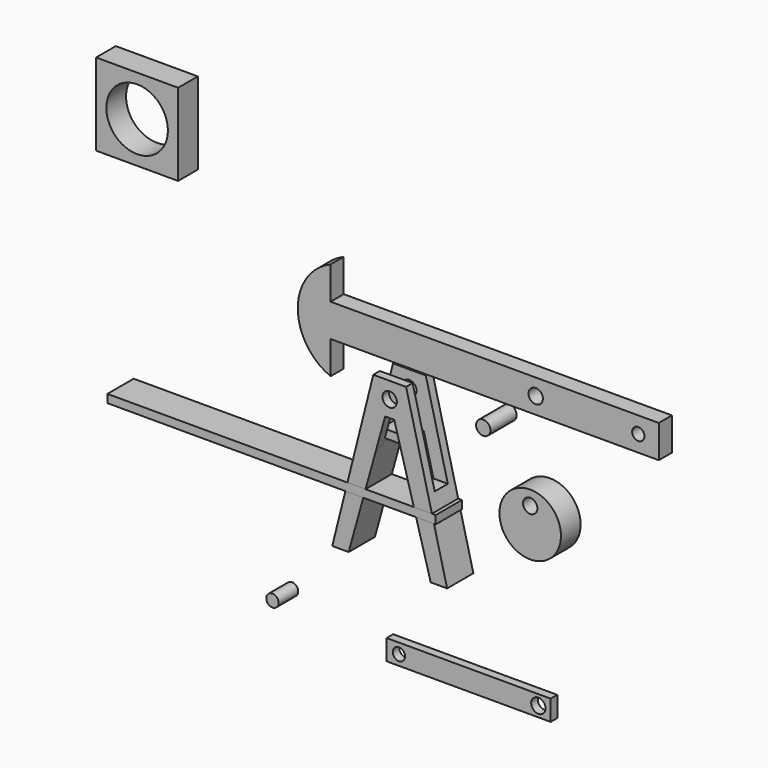
from build123d import *

# Parameters (mm, degrees)
F0_R      = 22.225
F0_R_2    = 19.05
F1_DEPTH  = 50.8
F2_R      = 22.225
F3_DEPTH  = 25.4
F5_DEPTH  = 50.8
F7_DEPTH  = 25.4
F8_R      = 22.225
F9_DEPTH  = 101.6
F10_R     = 95.25
F10_R_2   = 22.225
F11_DEPTH = 76.2
F12_R     = 19.05
F13_DEPTH = 76.2
F14_R     = 22.225
F15_DEPTH = 25.4
F16_W     = 254
F16_H     = 254
F16_R     = 95.25
F17_DEPTH = 76.2
F18_W     = 1016
F18_H     = 25.4
F19_DEPTH = 101.6


with BuildPart() as f1:
    # F0 (on Front) → F1 (new body)
    with BuildSketch(Plane.XZ):
        with BuildLine():
            Line((674.7886301041, 176.9277313841), (-341.2113698959, 176.9277313841))
            Line((-341.2113698959, 176.9277313841), (-341.2113698959, 278.5277313841))
            ThreePointArc((-341.2113698959, 278.5277313841), (-442.8113698959, 126.1277313841), (-341.2113698959, -26.2722686159))
            Line((-341.2113698959, -26.2722686159), (-341.2113698959, 75.3277313841))
            Line((-341.2113698959, 75.3277313841), (674.7886301041, 75.3277313841))
            Line((674.7886301041, 75.3277313841), (674.7886301041, 176.9277313841))
        make_face()
        with Locations((293.7886301041, 126.1277313841)):
            Circle(F0_R, mode=Mode.SUBTRACT)
        with Locations((611.2886301041, 126.1277313841)):
            Circle(F0_R_2, mode=Mode.SUBTRACT)
    extrude(amount=F1_DEPTH)


with BuildPart() as f3:
    # F2 (on Front) → F3 (new body)
    with BuildSketch(Plane.XZ):
        Polygon((-117.6197227955, 54.7419947535), (-168.4197227955, 54.7419947535), (-295.4197227955, -453.2580052465), (-244.6197227955, -453.2580052465), (-131.7308339066, -46.8580052465), (-103.5086116844, -46.8580052465), (9.3802772045, -453.2580052465), (60.1802772045, -453.2580052465), (-66.8197227955, 54.7419947535), align=None)
        with Locations((-117.6197227955, 3.9419947535)):
            Circle(F2_R, mode=Mode.SUBTRACT)
    extrude(amount=F3_DEPTH)

    # F4 (on face) → F5 (join)
    with BuildSketch(Plane.XZ.offset(25.4)):
        Polygon((-73.1697227955, -97.6580052465), (-89.3975005733, -97.6580052465), (-82.3419450177, -123.0580052465), (9.3802772045, -453.2580052465), (60.1802772045, -453.2580052465), (1.4427772045, -218.3080052465), (-43.0072227955, -218.3080052465), align=None)
        Polygon((-152.8975005733, -123.0580052465), (-145.8419450177, -97.6580052465), (-162.0697227955, -97.6580052465), (-192.2322227955, -218.3080052465), (-236.6822227955, -218.3080052465), (-295.4197227955, -453.2580052465), (-244.6197227955, -453.2580052465), align=None)
        Polygon((-89.3975005733, -97.6580052465), (-145.8419450177, -97.6580052465), (-152.8975005733, -123.0580052465), (-82.3419450177, -123.0580052465), align=None)
    extrude(amount=F5_DEPTH)

    # F6 (on face) → F7 (join)
    with BuildSketch(Plane.XZ.offset(76.2)):
        Polygon((-43.0072227955, -218.3080052465), (1.4427772045, -218.3080052465), (-66.8197227955, 54.7419947535), (-117.6197227955, 54.7419947535), (-168.4197227955, 54.7419947535), (-236.6822227955, -218.3080052465), (-192.2322227955, -218.3080052465), (-162.0697227955, -97.6580052465), (-145.8419450177, -97.6580052465), (-131.7308339066, -46.8580052465), (-103.5086116844, -46.8580052465), (-89.3975005733, -97.6580052465), (-73.1697227955, -97.6580052465), align=None)
        with BuildLine():
            ThreePointArc((-95.3947227955, 3.9419947535), (-133.3351710074, -11.7734534584), (-117.6197227955, 26.1669947535))
            ThreePointArc((-117.6197227955, 26.1669947535), (-101.9042745836, 19.6574429654), (-95.3947227955, 3.9419947535))
        make_face(mode=Mode.SUBTRACT)
        Polygon((-158.3203805236, -142.5803730679), (-152.8975005733, -123.0580052465), (-145.8419450177, -97.6580052465), (-162.0697227955, -97.6580052465), (-192.2322227955, -218.3080052465), (-236.6822227955, -218.3080052465), (-295.4197227955, -453.2580052465), (-244.6197227955, -453.2580052465), align=None)
        Polygon((9.3802772045, -453.2580052465), (60.1802772045, -453.2580052465), (1.4427772045, -218.3080052465), (-43.0072227955, -218.3080052465), (-73.1697227955, -97.6580052465), (-89.3975005733, -97.6580052465), (-82.3419450177, -123.0580052465), (-74.7274909157, -150.4700400139), align=None)
    extrude(amount=F7_DEPTH)


with BuildPart() as f9:
    # F8 (on Front) → F9 (new body)
    with BuildSketch(Plane.XZ):
        with Locations((171.9661206007, 21.0888702422)):
            Circle(F8_R)
    extrude(amount=F9_DEPTH)


with BuildPart() as f11:
    # F10 (on Front) → F11 (new body)
    with BuildSketch(Plane.XZ):
        with Locations((297.0201671124, -212.3168110847)):
            Circle(F10_R)
        with Locations((297.0201671124, -161.5168110847)):
            Circle(F10_R_2, mode=Mode.SUBTRACT)
    extrude(amount=F11_DEPTH)


with BuildPart() as f13:
    # F12 (on Front) → F13 (new body)
    with BuildSketch(Plane.XZ):
        with Locations((-501.0008811951, -679.0651679039)):
            Circle(F12_R)
    extrude(amount=F13_DEPTH)


with BuildPart() as f15:
    # F14 (on Front) → F15 (new body)
    with BuildSketch(Plane.XZ):
        Polygon((243.6290978968, -700.0627458964), (-111.9709021032, -700.0627458964), (-111.9709021032, -731.8127458964), (-111.9709021032, -763.5627458964), (243.6290978968, -763.5627458964), align=None)
        with BuildLine():
            Line((-169.1209021032, -731.8127458964), (-188.1709021032, -731.8127458964))
            Line((-188.1709021032, -731.8127458964), (-188.1709021032, -763.5627458964))
            Line((-188.1709021032, -763.5627458964), (-111.9709021032, -763.5627458964))
            Line((-111.9709021032, -763.5627458964), (-111.9709021032, -731.8127458964))
            Line((-111.9709021032, -731.8127458964), (-131.0209021032, -731.8127458964))
            ThreePointArc((-131.0209021032, -731.8127458964), (-150.0709021032, -750.8627458964), (-169.1209021032, -731.8127458964))
        make_face()
        with BuildLine():
            Line((-111.9709021032, -700.0627458964), (-188.1709021032, -700.0627458964))
            Line((-188.1709021032, -700.0627458964), (-188.1709021032, -731.8127458964))
            Line((-188.1709021032, -731.8127458964), (-169.1209021032, -731.8127458964))
            ThreePointArc((-169.1209021032, -731.8127458964), (-150.0709021032, -712.7627458964), (-131.0209021032, -731.8127458964))
            Line((-131.0209021032, -731.8127458964), (-111.9709021032, -731.8127458964))
            Line((-111.9709021032, -731.8127458964), (-111.9709021032, -700.0627458964))
        make_face()
        Polygon((319.8290978968, -700.0627458964), (243.6290978968, -700.0627458964), (243.6290978968, -763.5627458964), (319.8290978968, -763.5627458964), (319.8290978968, -731.8127458964), align=None)
        with Locations((281.7290978968, -731.8127458964)):
            Circle(F14_R, mode=Mode.SUBTRACT)
    extrude(amount=F15_DEPTH)


with BuildPart() as f17:
    # F16 (on Front) → F17 (new body)
    with BuildSketch(Plane.XZ):
        with Locations((-919.7853881174, 496.4463600467)):
            Rectangle(F16_W, F16_H)
        with Locations((-919.7853881174, 496.4463600467)):
            Circle(F16_R, mode=Mode.SUBTRACT)
    extrude(amount=F17_DEPTH)


with BuildPart() as f19:
    # F18 (on Front) → F19 (new body)
    with BuildSketch(Plane.XZ):
        with Locations((-483.3161662409, -277.6545584202)):
            Rectangle(F18_W, F18_H)
    extrude(amount=F19_DEPTH)


solid = Compound([f1.part, f3.part, f9.part, f11.part, f13.part, f15.part, f17.part, f19.part])
